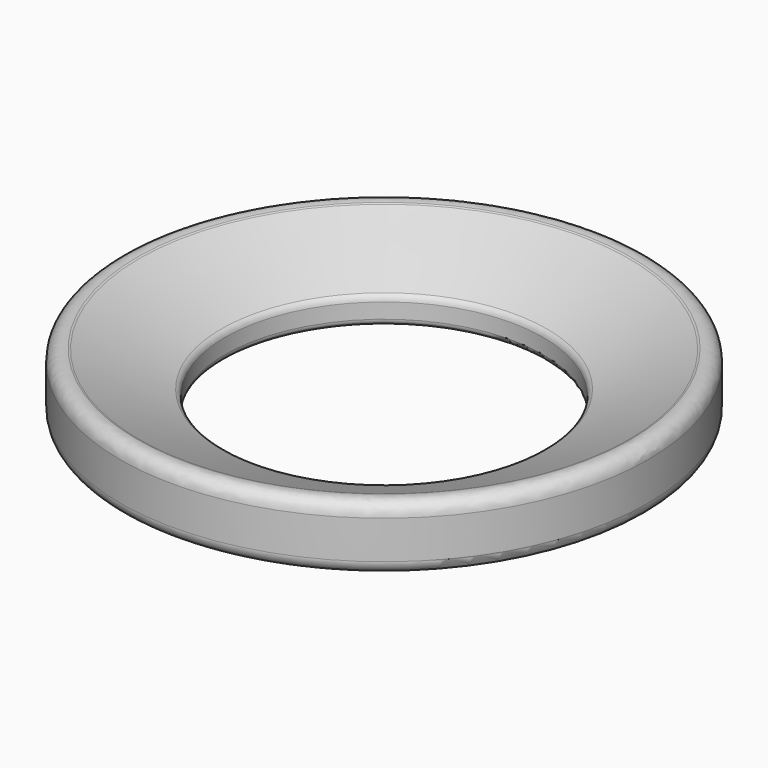
from build123d import *

# Parameters (mm, degrees)
F0_R     = 103.2396563961
F0_R_2   = 62.1499238645
F1_DEPTH = 25.4
F2_SIZE2 = 35.56
F2_SIZE  = 15.24
F3_R     = 10.16
F4_R     = 5.08
F5_R     = 2.54
F6_R     = 5.08
F7_R     = 2.54


with BuildPart() as f1:
    # F0 (on Top) → F1 (new body)
    with BuildSketch(Plane.XY):
        Circle(F0_R)
        Circle(F0_R_2, mode=Mode.SUBTRACT)
    extrude(amount=F1_DEPTH)

    # F2
    f2_edges = [f1.edges().sort_by_distance(p)[0] for p in [
        (-62.149924, 0, 25.4),
    ]]
    f2_side = f1.faces().sort_by_distance((-62.149924, 0, 12.7))[0]
    chamfer(f2_edges, length=F2_SIZE, length2=F2_SIZE2, reference=f2_side)

    # F3
    f3_edges = [f1.edges().sort_by_distance(p)[0] for p in [
        (-97.709924, 0, 25.4),
    ]]
    fillet(f3_edges, radius=F3_R)

    # F4
    f4_edges = [f1.edges().sort_by_distance(p)[0] for p in [
        (-103.239656, 0, 25.4),
    ]]
    fillet(f4_edges, radius=F4_R)

    # F5
    f5_edges = [f1.edges().sort_by_distance(p)[0] for p in [
        (-62.149924, 0, 10.16),
    ]]
    fillet(f5_edges, radius=F5_R)

    # F6
    f6_edges = [f1.edges().sort_by_distance(p)[0] for p in [
        (-103.239656, 0, 0),
    ]]
    fillet(f6_edges, radius=F6_R)

    # F7
    f7_edges = [f1.edges().sort_by_distance(p)[0] for p in [
        (-62.149924, 0, 0),
    ]]
    fillet(f7_edges, radius=F7_R)


solid = f1.part
